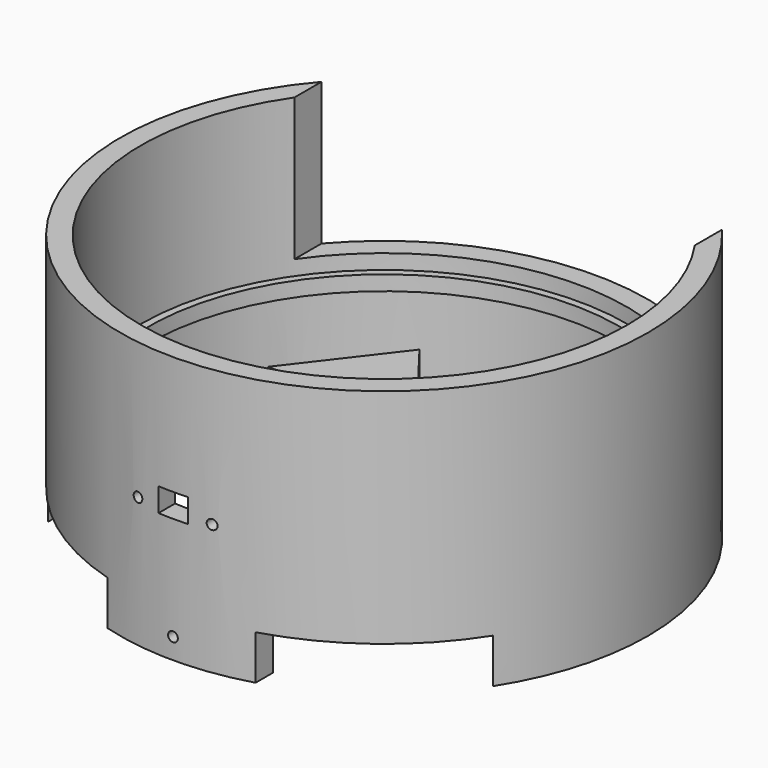
from build123d import *

# Parameters (mm, degrees)
F0_R      = 89
F0_R_2    = 82
F1_DEPTH  = 90
F2_W      = 135
F2_H      = 48
F3_DEPTH  = 130
F4_W      = 10
F4_H      = 8
F5_DEPTH  = 100
F7_D      = 3.3
F7_DEPTH  = 89.001
F9_START  = -5
F8_R      = 82
F8_R_2    = 79.5
F9_DEPTH  = 5
F10_W     = 50
F10_H     = 15
F11_DEPTH = 152.2
F13_DEPTH = 50
F15_D     = 3.3
F17_D     = 3.3


with BuildPart() as f1:
    # F0 (on Top) → F1 (new body)
    with BuildSketch(Plane.XY):
        Circle(F0_R)
        Circle(F0_R_2, mode=Mode.SUBTRACT)
    extrude(amount=F1_DEPTH)

    # F2 (on Front) → F3 (cut)
    with BuildSketch(Plane.XZ):
        with Locations((0, 66)):
            Rectangle(F2_W, F2_H)
    extrude(amount=-F3_DEPTH, mode=Mode.SUBTRACT)

    # F4 (on Front) → F5 (cut)
    with BuildSketch(Plane.XZ):
        with Locations((0, 46)):
            Rectangle(F4_W, F4_H)
    extrude(amount=F5_DEPTH, mode=Mode.SUBTRACT)

    # F7 (through all, one way)
    with BuildSketch(Plane(origin=(0, 0, 0), x_dir=(1, 0, 0), z_dir=(0, 1, 0))):
        with Locations((-12.5, -44), (12.5, -44), (0, -7)):
            Circle(F7_D / 2)
    extrude(amount=-F7_DEPTH, mode=Mode.SUBTRACT)

    # F8 (on face) → F9 (join)
    with BuildSketch(Plane.XY.offset(42).offset(F9_START)):
        Circle(F8_R)
        Circle(F8_R_2, mode=Mode.SUBTRACT)
    extrude(amount=-F9_DEPTH)

    # F10 (on Front) → F11 (cut)
    with BuildSketch(Plane.XZ):
        with Locations((-50, 7.5)):
            Rectangle(F10_W, F10_H)
        with Locations((50, 7.5)):
            Rectangle(F10_W, F10_H)
    extrude(amount=F11_DEPTH, mode=Mode.SUBTRACT)

    # F15 (through all)
    with Locations(Plane(origin=(-7.1946598354, 5.520656661, 0), x_dir=(-0.608761429, -0.7933533403, 0), z_dir=(0.7933533403, -0.608761429, 0))):
        with Locations((4.248469624, -7)):
            Hole(F15_D / 2)

    # F17 (through all)
    with Locations(Plane(origin=(7.1946598354, 5.520656661, 0), x_dir=(-0.608761429, 0.7933533403, 0), z_dir=(-0.7933533403, -0.608761429, 0))):
        with Locations((-4.248469624, -7)):
            Hole(F17_D / 2)


with BuildPart() as f13:
    # F12 (on Top) → F13 (new body)
    with BuildSketch(Plane.XY):
        Polygon((0, 14.8969199074), (-25, -17.6837144136), (25, -17.6837144136), align=None)
    extrude(amount=F13_DEPTH)


solid = Compound([f1.part, f13.part])
